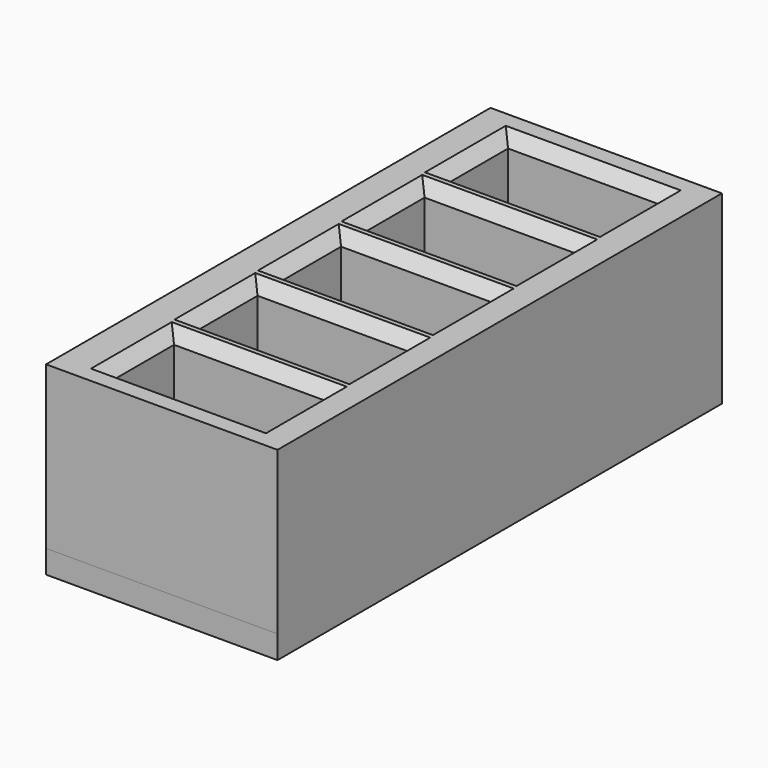
from build123d import *

# Parameters (mm, degrees)
F0_W     = 31.75
F0_H     = 76.2
F0_W_2   = 20.828
F0_H_2   = 10.668
F1_DEPTH = 25.4
F2_W     = 31.691335
F2_H     = 76.259181
F3_DEPTH = 3.175
F4_SIZE  = 1.5875


with BuildPart() as f1:
    # F0 (on Top) → F1 (new body)
    with BuildSketch(Plane.XY):
        with Locations((15.875, 38.1)):
            Rectangle(F0_W, F0_H)
        with Locations((16.382345, 9.146222)):
            Rectangle(F0_W_2, F0_H_2, mode=Mode.SUBTRACT)
        with Locations((16.255509, 23.623667)):
            Rectangle(F0_W_2, F0_H_2, mode=Mode.SUBTRACT)
        with Locations((16.128672, 38.101111)):
            Rectangle(F0_W_2, F0_H_2, mode=Mode.SUBTRACT)
        with Locations((16.001836, 52.578556)):
            Rectangle(F0_W_2, F0_H_2, mode=Mode.SUBTRACT)
        with Locations((15.875, 67.056)):
            Rectangle(F0_W_2, F0_H_2, mode=Mode.SUBTRACT)
    extrude(amount=F1_DEPTH)

    # F2 (on Top) → F3 (join)
    with BuildSketch(Plane.XY):
        with Locations((15.845667, 38.12959)):
            Rectangle(F2_W, F2_H)
    extrude(amount=F3_DEPTH)

    # F4
    f4_edges = [f1.edges().sort_by_distance(p)[0] for p in [
        (5.968345, 9.146222, 25.4),
        (16.382345, 3.812222, 25.4),
        (26.796345, 9.146222, 25.4),
        (16.382345, 14.480222, 25.4),
        (16.255509, 18.289667, 25.4),
        (5.841509, 23.623667, 25.4),
        (26.669509, 23.623667, 25.4),
        (16.255509, 28.957667, 25.4),
        (16.128672, 32.767111, 25.4),
        (5.714672, 38.101111, 25.4),
        (26.542672, 38.101111, 25.4),
        (16.128672, 43.435111, 25.4),
        (16.001836, 57.912556, 25.4),
        (5.587836, 52.578556, 25.4),
        (16.001836, 47.244556, 25.4),
        (26.415836, 52.578556, 25.4),
        (15.875, 61.722, 25.4),
        (5.461, 67.056, 25.4),
        (15.875, 72.39, 25.4),
        (26.289, 67.056, 25.4),
    ]]
    chamfer(f4_edges, length=F4_SIZE)


solid = f1.part
